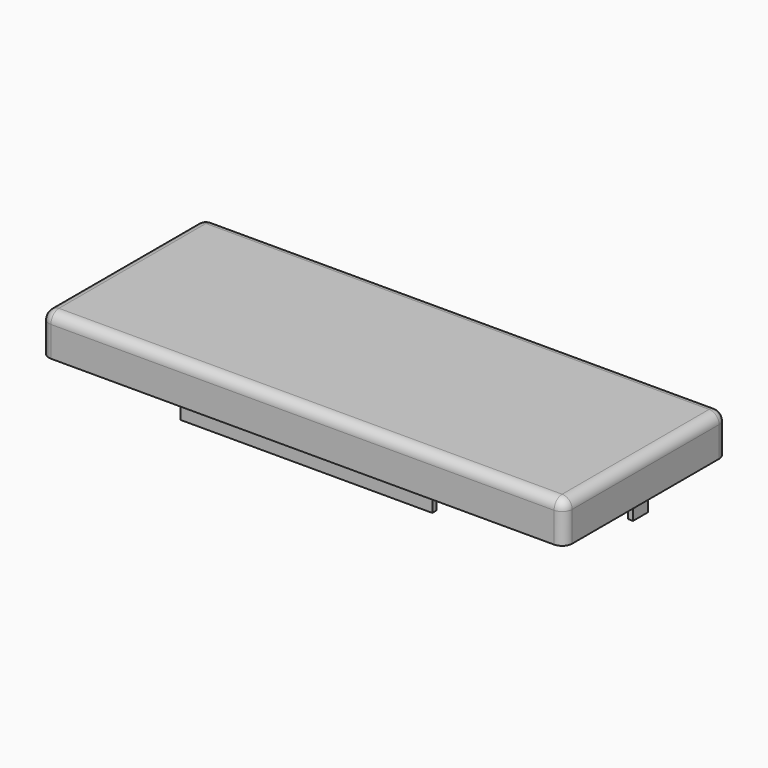
from build123d import *

# Parameters (mm, degrees)
SKETCH014_W    = 100
SKETCH014_H    = 36.5
PAD011_DEPTH   = 6
THICKNESS002_T = 2
SKETCH015_W    = 50
SKETCH015_H    = 1
SKETCH015_W_2  = 1
SKETCH015_H_2  = 3.782178
PAD012_DEPTH   = 3
FILLET004_R    = 1.5


with BuildPart() as part:
    # Sketch014 → Pad011 (new body)
    with BuildSketch(Plane.XY):
        Rectangle(SKETCH014_W, SKETCH014_H)
    extrude(amount=PAD011_DEPTH)

    # Thickness002
    thickness002_openings = [part.faces().sort_by_distance(p)[0] for p in [
        (0, 0, 0),
    ]]
    offset(amount=THICKNESS002_T, openings=thickness002_openings)

    # Sketch015 → Pad012 (join)
    with BuildSketch(Plane.XY):
        with Locations((0, -18.75)):
            Rectangle(SKETCH015_W, SKETCH015_H)
        with Locations((50.5, 0)):
            Rectangle(SKETCH015_W_2, SKETCH015_H_2)
        with Locations((0, 18.75)):
            Rectangle(SKETCH015_W, SKETCH015_H)
        Polygon((-50, -9.125126), (-51, -9.124874), (-51, 9.125126), (-50, 9.125126), align=None)
    extrude(amount=-PAD012_DEPTH)

    # Fillet004
    fillet004_edges = [part.edges().sort_by_distance(p)[0] for p in [
        (0, 18.25, 6),
        (50, 0, 6),
        (0, -18.25, 6),
        (-50, 0, 6),
    ]]
    fillet(fillet004_edges, radius=FILLET004_R)


with BuildPart() as part_1:
    # Body004 placement: moved
    add(part.part.moved(Location((0, 0, 10))))


solid = part_1.part
